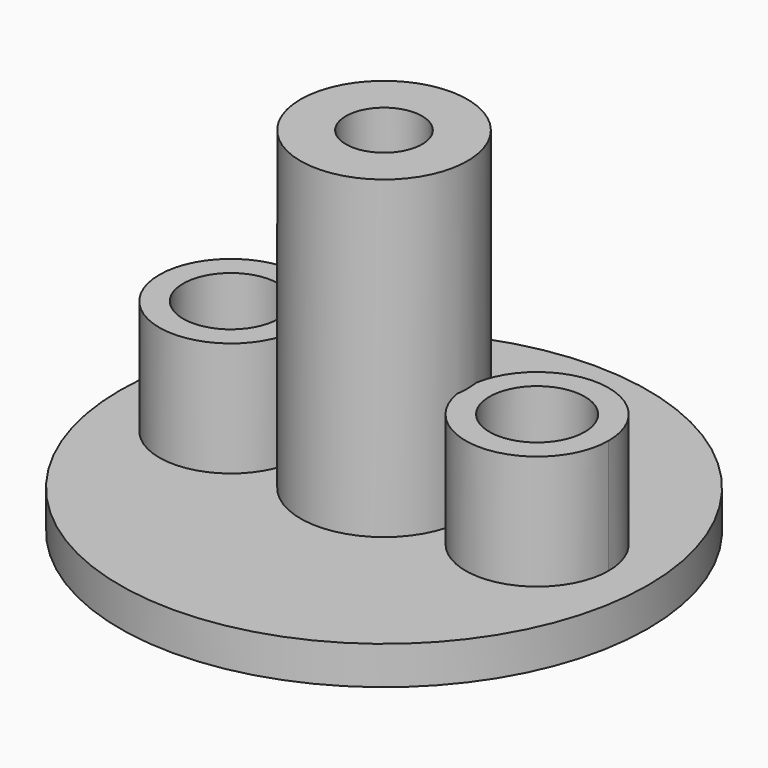
from build123d import *

# Parameters (mm, degrees)
F2_R     = 2.5
F3_DEPTH = 6
F4_DEPTH = 25


with BuildPart() as f1:
    # F0 (on Front) → F1 (revolve)
    with BuildSketch(Plane.XZ):
        Polygon((-4.375, 0), (-2, 0), (-2, 18.5), (-4.375, 18.5), (-4.375, 2), (-13.835, 2), (-13.835, 0), align=None)
    revolve(axis=Axis((0, 0, 9.25), (0, 0, 1)))

    # F2 (on face) → F3 (join)
    with BuildSketch(Plane.XY.offset(2)):
        with BuildLine():
            ThreePointArc((-4.328894081, -0.6334832559), (-4.375, 0), (-4.328894081, 0.6334832559))
            ThreePointArc((-4.328894081, 0.6334832559), (-11.775, 0), (-4.328894081, -0.6334832559))
        make_face()
        with Locations((-8.025, 0)):
            Circle(F2_R, mode=Mode.SUBTRACT)
        with BuildLine():
            ThreePointArc((11.775, 0), (8.3428858315, 3.7365021876), (4.328894081, 0.6334832559))
            ThreePointArc((4.328894081, 0.6334832559), (4.3634582961, 0.3175794354), (4.375, 0))
            ThreePointArc((4.375, 0), (4.3634582961, -0.3175794354), (4.328894081, -0.6334832559))
            ThreePointArc((4.328894081, -0.6334832559), (8.3428858315, -3.7365021876), (11.775, 0))
        make_face()
        with Locations((8.025, 0)):
            Circle(F2_R, mode=Mode.SUBTRACT)
    extrude(amount=F3_DEPTH)

    # F4 (cut): faces of the model
    f4_faces = [f1.faces().sort_by_distance(p)[0] for p in [
        (-8.025, 0, 2),
        (8.025, 0, 2),
    ]]
    extrude(f4_faces, amount=-F4_DEPTH, mode=Mode.SUBTRACT)


solid = f1.part
